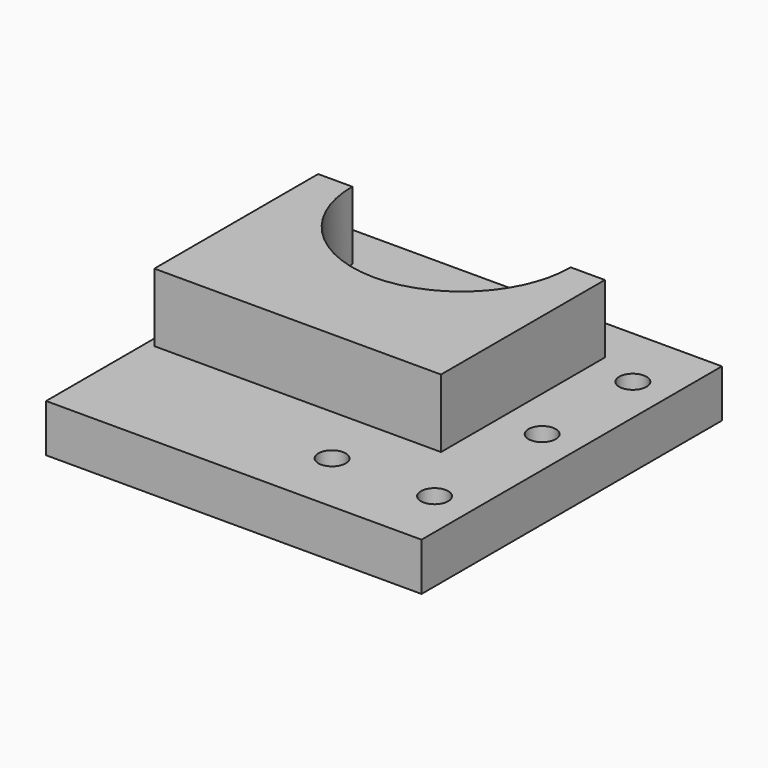
from build123d import *

# Parameters (mm, degrees)
F0_W     = 55
F0_H     = 55
F1_DEPTH = 7
F4_DEPTH = 10
F3_R     = 2
F5_DEPTH = 7.001


with BuildPart() as f1:
    # F0 (on Top) → F1 (new body)
    with BuildSketch(Plane.XY):
        with Locations((-27.5, 27.5)):
            Rectangle(F0_W, F0_H)
    extrude(amount=F1_DEPTH)

    # F2 (on face) → F4 (join)
    with BuildSketch(Plane.XY.offset(7)):
        with BuildLine():
            Line((-43.1786440313, 18.3423049748), (-43.1786440313, 36.1469540578))
            ThreePointArc((-43.1786440313, 36.1469540578), (-47.3423168357, 41.6235479841), (-48.8213559687, 48.3423049748))
            Line((-48.8213559687, 48.3423049748), (-53.8213559687, 48.3423049748))
            Line((-53.8213559687, 48.3423049748), (-53.8213559687, 18.3423049748))
            Line((-53.8213559687, 18.3423049748), (-43.1786440313, 18.3423049748))
        make_face()
        with BuildLine():
            Line((-27.5, 18.3423049748), (-27.5, 33.2531310195))
            ThreePointArc((-27.5, 33.2531310195), (-35.7254403266, 32.6080654303), (-43.1786440313, 36.1469540578))
            Line((-43.1786440313, 36.1469540578), (-43.1786440313, 18.3423049748))
            Line((-43.1786440313, 18.3423049748), (-27.5, 18.3423049748))
        make_face()
        with BuildLine():
            ThreePointArc((-16.8213559687, 48.3423049748), (-19.7610784927, 39.0995157718), (-27.5, 33.2531310195))
            ThreePointArc((-27.5, 33.2531310195), (-19.2745596734, 32.6080654303), (-11.8213559687, 36.1469540578))
            Line((-11.8213559687, 36.1469540578), (-11.8213559687, 48.3423049748))
            Line((-11.8213559687, 48.3423049748), (-16.8213559687, 48.3423049748))
        make_face()
        with BuildLine():
            ThreePointArc((-11.8213559687, 36.1469540578), (-19.2745596734, 32.6080654303), (-27.5, 33.2531310195))
            Line((-27.5, 33.2531310195), (-27.5, 18.3423049748))
            Line((-27.5, 18.3423049748), (-11.8213559687, 18.3423049748))
            Line((-11.8213559687, 18.3423049748), (-11.8213559687, 36.1469540578))
        make_face()
    extrude(amount=F4_DEPTH)

    # F3 (on face) → F5 (cut, through all)
    with BuildSketch(Plane.XY.offset(7)):
        with Locations((-20.5813342872, 9.34450762)):
            Circle(F3_R)
        with Locations((-5.5655137111, 9.34450762)):
            Circle(F3_R)
        with Locations((-5.5655137111, 29.042776674)):
            Circle(F3_R)
        with Locations((-5.5655137111, 45.6509888542)):
            Circle(F3_R)
    extrude(amount=-F5_DEPTH, mode=Mode.SUBTRACT)


solid = f1.part
